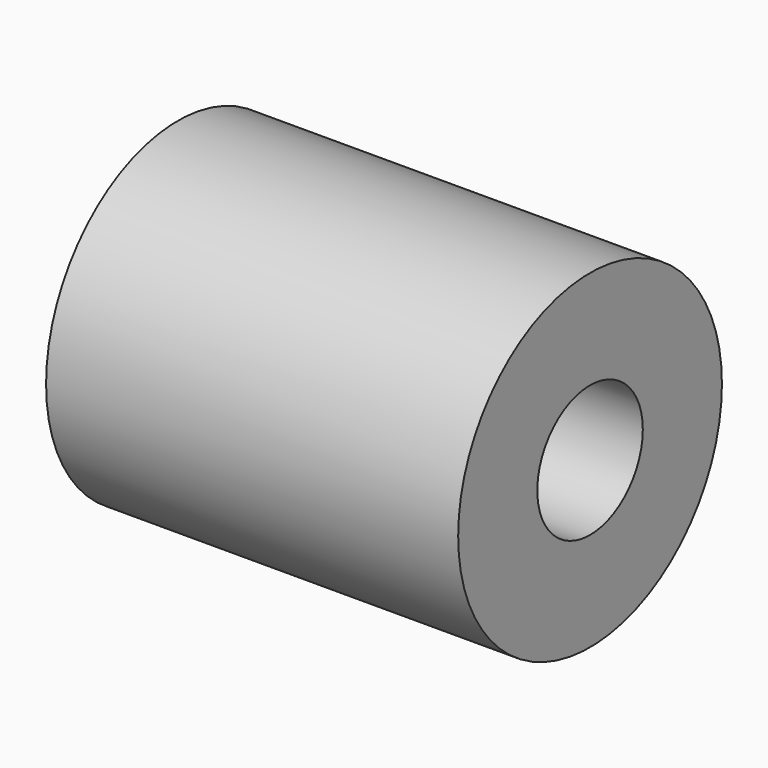
from build123d import *

# Parameters (mm, degrees)
F0_R     = 10
F1_DEPTH = 25
F4_R     = 4
F5_DEPTH = 25


with BuildPart() as f1:
    # F0 (on Right) → F1 (new body)
    with BuildSketch(Plane.YZ):
        Circle(F0_R)
    extrude(amount=F1_DEPTH)


with BuildPart() as f2_1:
    # F2: copy of F1
    add(f1.part)

    # F4 (on face) → F5 (cut, through all)
    with BuildSketch(Plane.YZ.offset(25)):
        Circle(F4_R)
    extrude(amount=-F5_DEPTH, mode=Mode.SUBTRACT)


solid = f2_1.part
